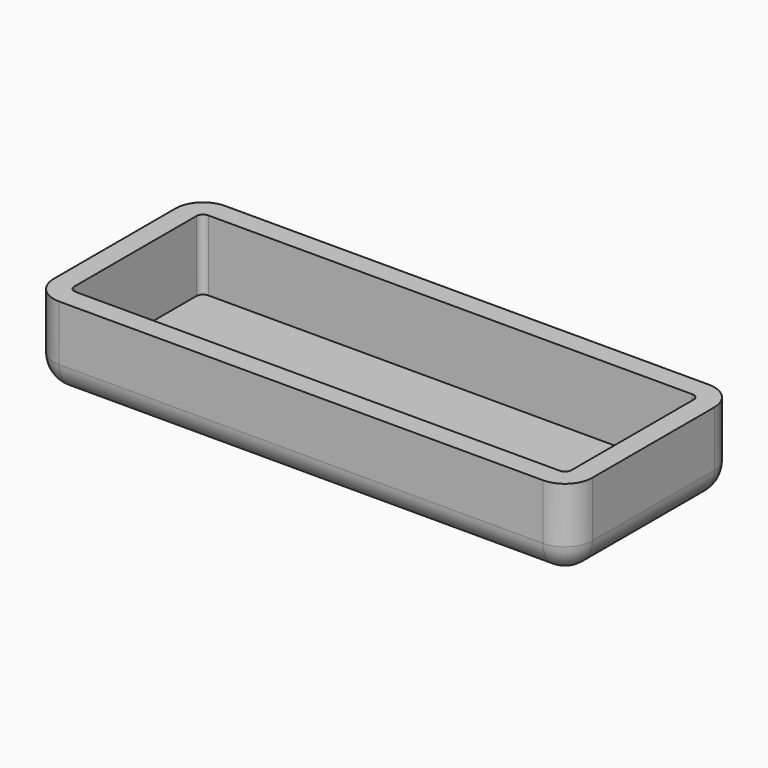
from build123d import *

# Parameters (mm, degrees)
F0_W     = 165.1
F0_H     = 63.5
F1_DEPTH = 25.4
F2_R     = 8.382
F4_DEPTH = 21.59


with BuildPart() as f1:
    # F0 (on Top) → F1 (new body)
    with BuildSketch(Plane.XY):
        with Locations((9.026632, 13.618593)):
            Rectangle(F0_W, F0_H)
    extrude(amount=F1_DEPTH)

    # F2
    f2_edges = [f1.edges().sort_by_distance(p)[0] for p in [
        (91.576632, -18.131407, 12.7),
        (91.576632, 45.368593, 12.7),
        (-73.523368, 45.368593, 12.7),
        (-73.523368, -18.131407, 12.7),
        (9.026632, 45.368593, 0),
        (-73.523368, 13.618593, 0),
        (9.026632, -18.131407, 0),
        (91.576632, 13.618593, 0),
    ]]
    fillet(f2_edges, radius=F2_R)

    # F3 (on face) → F4 (cut)
    with BuildSketch(Plane.XY.offset(25.4)):
        with BuildLine():
            Line((85.226632, -9.749407), (85.226632, 36.986593))
            ThreePointArc((85.226632, 36.986593), (84.631473, 38.423434), (83.194632, 39.018593))
            Line((83.194632, 39.018593), (-65.141368, 39.018593))
            ThreePointArc((-65.141368, 39.018593), (-66.578209, 38.423434), (-67.173368, 36.986593))
            Line((-67.173368, 36.986593), (-67.173368, -9.749407))
            ThreePointArc((-67.173368, -9.749407), (-66.578209, -11.186248), (-65.141368, -11.781407))
            Line((-65.141368, -11.781407), (83.194632, -11.781407))
            ThreePointArc((83.194632, -11.781407), (84.631473, -11.186248), (85.226632, -9.749407))
        make_face()
    extrude(amount=-F4_DEPTH, mode=Mode.SUBTRACT)


solid = f1.part
